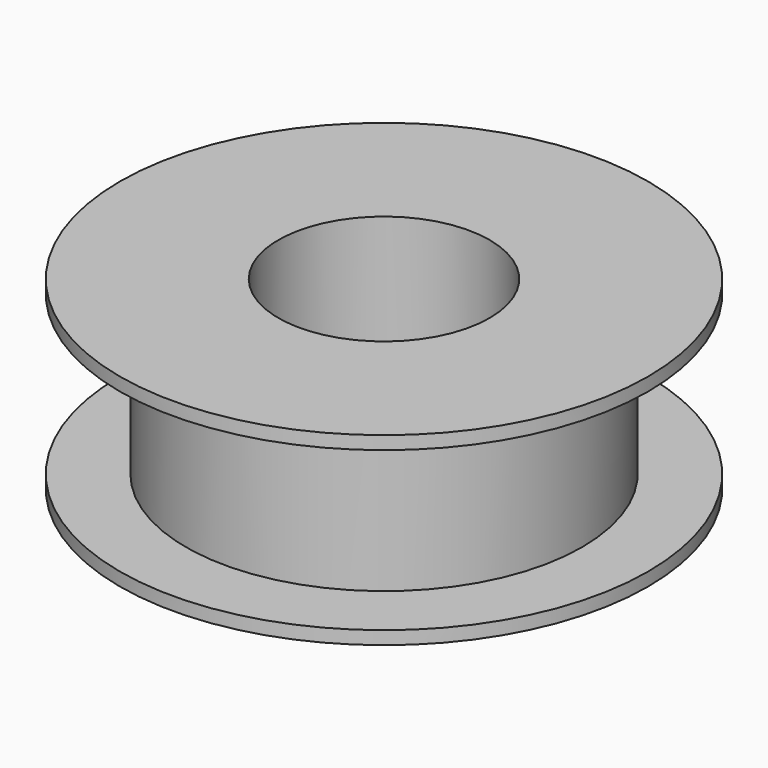
from build123d import *

# Parameters (mm, degrees)
F0_R     = 7.5
F0_R_2   = 4
F1_DEPTH = 3
F2_R     = 10
F2_R_2   = 7.5
F2_R_3   = 4
F3_DEPTH = 0.5


with BuildPart() as f1:
    # F0 (on Top) → F1 (new body)
    with BuildSketch(Plane.XY):
        Circle(F0_R)
        Circle(F0_R_2, mode=Mode.SUBTRACT)
    extrude(amount=F1_DEPTH)

    # F2 (on face) → F3 (join)
    with BuildSketch(Plane.XY.offset(3)):
        Circle(F2_R)
        Circle(F2_R_2, mode=Mode.SUBTRACT)
        Circle(F2_R_2)
        Circle(F2_R_3, mode=Mode.SUBTRACT)
    extrude(amount=F3_DEPTH)

    # F4: F1 across face


with BuildPart() as f1_1:
    add(f1.part)
    add(f1.part.mirror(Plane(origin=(0, 0, 0), x_dir=(1, 0, 0), z_dir=(0, 0, -1))))


solid = f1_1.part
